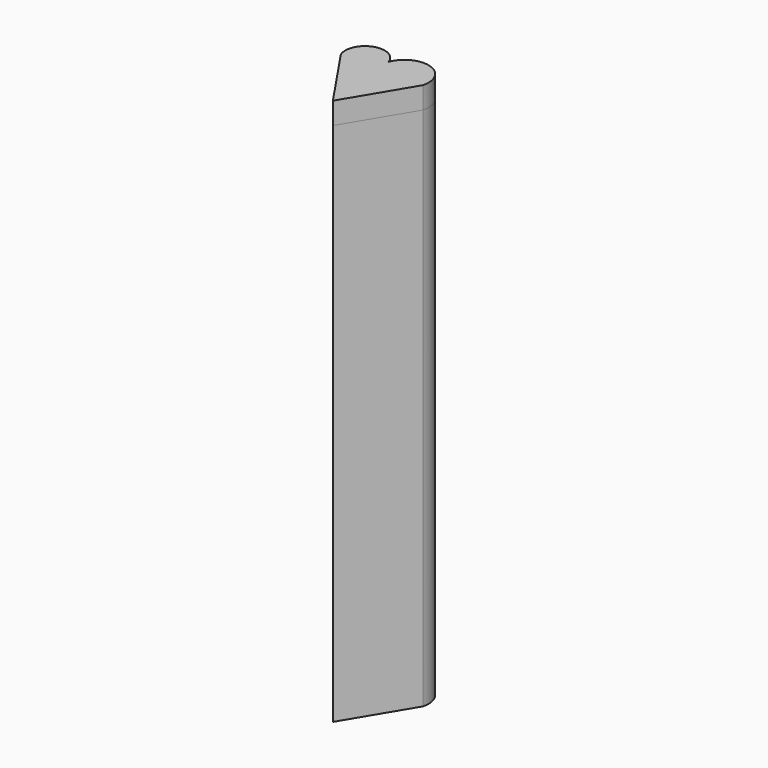
from build123d import *

# Parameters (mm, degrees)
F1_DEPTH = 600
F3_DEPTH = 25


with BuildPart() as f1:
    # F0 (on Top) → F1 (new body)
    with BuildSketch(Plane.XY):
        with BuildLine():
            ThreePointArc((-15.3160703834, 30.5223067463), (-44.3967558701, 44.8536153022), (-57.7073805034, 15.291816555))
            Line((-57.7073805034, 15.291816555), (-7.2852126323, -59.080902487))
            Line((-7.2852126323, -59.080902487), (36.8342064321, 14.661539346))
            ThreePointArc((36.8342064321, 14.661539346), (18.3028480979, 47.3959069356), (-15.3160703834, 30.5223067463))
        make_face()
        with BuildLine():
            ThreePointArc((-16.1090902984, 14.661539346), (-16.8918696214, 22.650886138), (-15.3160703834, 30.5223067463))
            ThreePointArc((-15.3160703834, 30.5223067463), (-14.2691999509, 22.5197557061), (-16.1090902984, 14.661539346))
        make_face(mode=Mode.SUBTRACT)
        with BuildLine():
            ThreePointArc((-16.1090902984, 14.661539346), (-14.2691999509, 22.5197557061), (-15.3160703834, 30.5223067463))
            ThreePointArc((-15.3160703834, 30.5223067463), (-16.8918696214, 22.650886138), (-16.1090902984, 14.661539346))
        make_face()
    extrude(amount=F1_DEPTH)


with BuildPart() as f3:
    # F2 (on face) → F3 (new body)
    with BuildSketch(Plane.XY.offset(600)):
        with BuildLine():
            Line((-57.7073805034, 15.291816555), (-7.2852126323, -59.080902487))
            Line((-7.2852126323, -59.080902487), (36.8342064321, 14.661539346))
            ThreePointArc((36.8342064321, 14.661539346), (18.3028480979, 47.3959069356), (-15.3160703834, 30.5223067463))
            ThreePointArc((-15.3160703834, 30.5223067463), (-44.3967558701, 44.8536153022), (-57.7073805034, 15.291816555))
        make_face()
    extrude(amount=F3_DEPTH)


solid = Compound([f1.part, f3.part])
